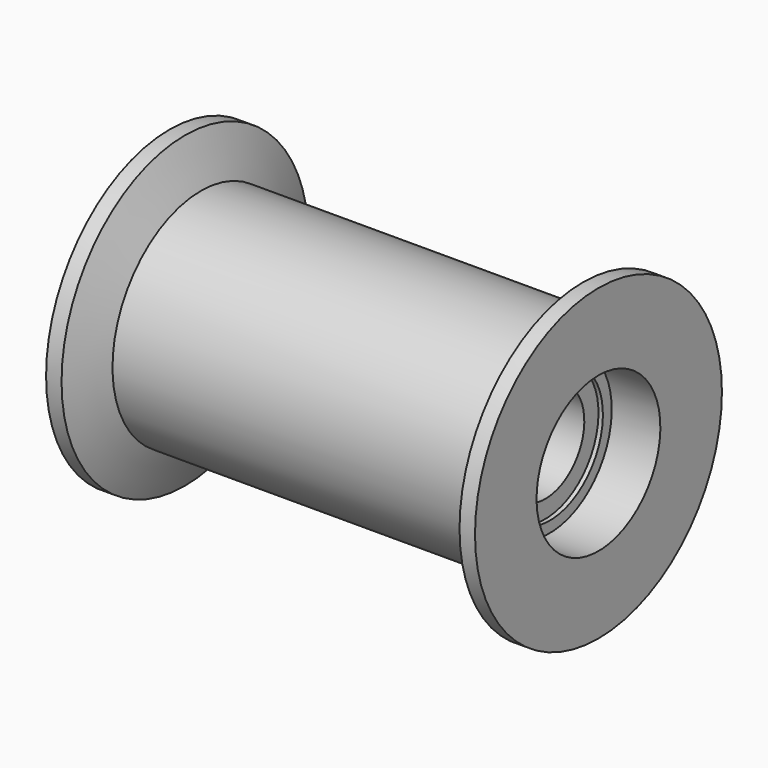
from build123d import *


with BuildPart() as f1:
    # F0 (on Front) → F1 (revolve)
    with BuildSketch(Plane.XZ):
        Polygon((41.4, 25), (0, 25), (-41.4, 25), (-45, 34.9), (-48.5, 34.9), (-48.5, 17.5), (-37.5, 17.5), (-37.5, 15), (-36.5, 15), (-36.5, 11), (0, 11), (36.5, 11), (36.5, 15), (37.5, 15), (37.5, 17.5), (48.5, 17.5), (48.5, 34.9), (45, 34.9), align=None)
    revolve(axis=Axis((3.210995, 0, 0), (1, 0, 0)))


solid = f1.part
